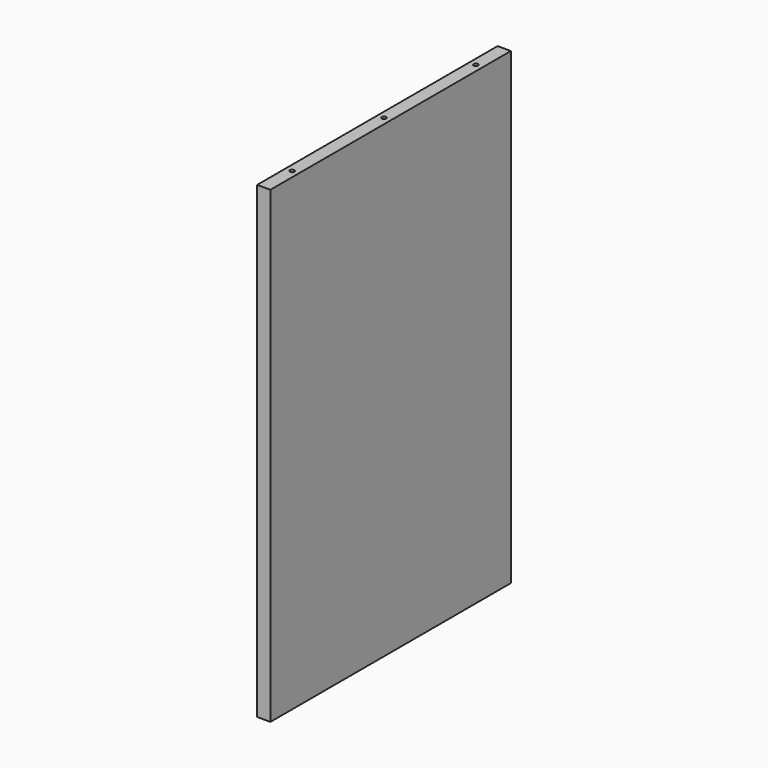
from build123d import *

# Parameters (mm, degrees)
F0_W     = 19.05
F0_H     = 431.8
F1_DEPTH = 673.1
F2_R     = 3.175
F3_DEPTH = 9.525
F4_R     = 3.175
F5_DEPTH = 9.525
F6_R     = 3.175
F7_DEPTH = 6.35


with BuildPart() as f1:
    # F0 (on Top) → F1 (new body)
    with BuildSketch(Plane.XY):
        with Locations((9.525, 215.9)):
            Rectangle(F0_W, F0_H)
    extrude(amount=F1_DEPTH)

    # F2 (on face) → F3 (cut)
    with BuildSketch(Plane(origin=(0, 0, 0), x_dir=(1, 0, 0), z_dir=(0, 0, -1))):
        with Locations((9.525, -50.8)):
            Circle(F2_R)
        with Locations((9.525, -215.9)):
            Circle(F2_R)
        with Locations((9.525, -381)):
            Circle(F2_R)
    extrude(amount=-F3_DEPTH, mode=Mode.SUBTRACT)

    # F4 (on face) → F5 (cut)
    with BuildSketch(Plane.XY.offset(673.1)):
        with Locations((9.525, 381)):
            Circle(F4_R)
        with Locations((9.525, 215.9)):
            Circle(F4_R)
        with Locations((9.525, 50.8)):
            Circle(F4_R)
    extrude(amount=-F5_DEPTH, mode=Mode.SUBTRACT)

    # F6 (on face) → F7 (cut)
    with BuildSketch(Plane(origin=(0, 0, 0), x_dir=(0, -1, 0), z_dir=(-1, 0, 0))):
        with Locations((-279.4, 336.55)):
            Circle(F6_R)
        with Locations((-50.8, 336.55)):
            Circle(F6_R)
    extrude(amount=-F7_DEPTH, mode=Mode.SUBTRACT)


solid = f1.part
